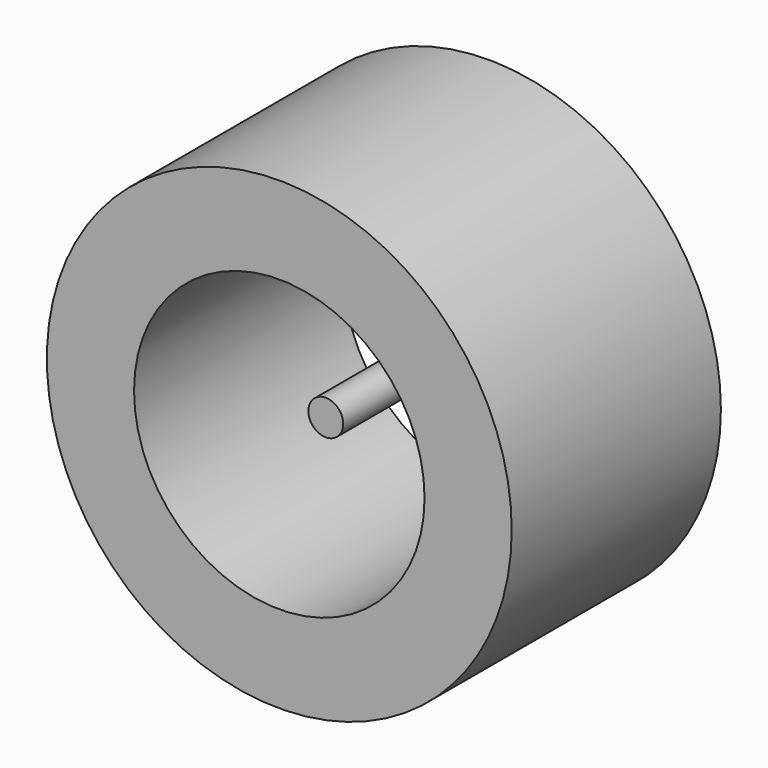
from build123d import *

# Parameters (mm, degrees)
CYLINDER024_R          = 3
CYLINDER024_DEPTH      = 35
CYLINDER024_ROLL_ANGLE = 90
CYLINDER023_R          = 25
CYLINDER023_DEPTH      = 60
CYLINDER023_ROLL_ANGLE = 90
CYLINDER022_R          = 40
CYLINDER022_DEPTH      = 45
CYLINDER022_ROLL_ANGLE = 90


with BuildPart() as cilindro007:
    # Cylinder024 → Cylinder024 (new body)
    with BuildSketch(Plane.XY):
        Circle(CYLINDER024_R)
    extrude(amount=CYLINDER024_DEPTH)


with BuildPart() as cilindro007_1:
    # Cylinder024 roll: moved
    add(cilindro007.part.rotate(Axis((0, 0, 0), (1, 0, 0)), CYLINDER024_ROLL_ANGLE))


with BuildPart() as cilindro007_2:
    # Cylinder024 placement: moved
    add(cilindro007_1.part.moved(Location((0, -214, 0))))


with BuildPart() as cilindro006:
    # Cylinder023 → Cylinder023 (new body)
    with BuildSketch(Plane.XY):
        Circle(CYLINDER023_R)
    extrude(amount=CYLINDER023_DEPTH)


with BuildPart() as cilindro006_1:
    # Cylinder023 roll: moved
    add(cilindro006.part.rotate(Axis((0, 0, 0), (1, 0, 0)), CYLINDER023_ROLL_ANGLE))


with BuildPart() as cilindro006_2:
    # Cylinder023 placement: moved
    add(cilindro006_1.part.moved(Location((0, -207, 0))))


with BuildPart() as rueda_derecha:
    # Cylinder022 → Cylinder022 (new body)
    with BuildSketch(Plane.XY):
        Circle(CYLINDER022_R)
    extrude(amount=CYLINDER022_DEPTH)


with BuildPart() as rueda_derecha_1:
    # Cylinder022 roll: moved
    add(rueda_derecha.part.rotate(Axis((0, 0, 0), (1, 0, 0)), CYLINDER022_ROLL_ANGLE))


with BuildPart() as rueda_derecha_2:
    # Cylinder022 placement: moved
    add(rueda_derecha_1.part.moved(Location((0, -214, 0))))

    # Cut: cut Cilindro006
    add(cilindro006_2.part, mode=Mode.SUBTRACT)

    # Fusion004: union Cilindro007
    add(cilindro007_2.part)


solid = rueda_derecha_2.part
